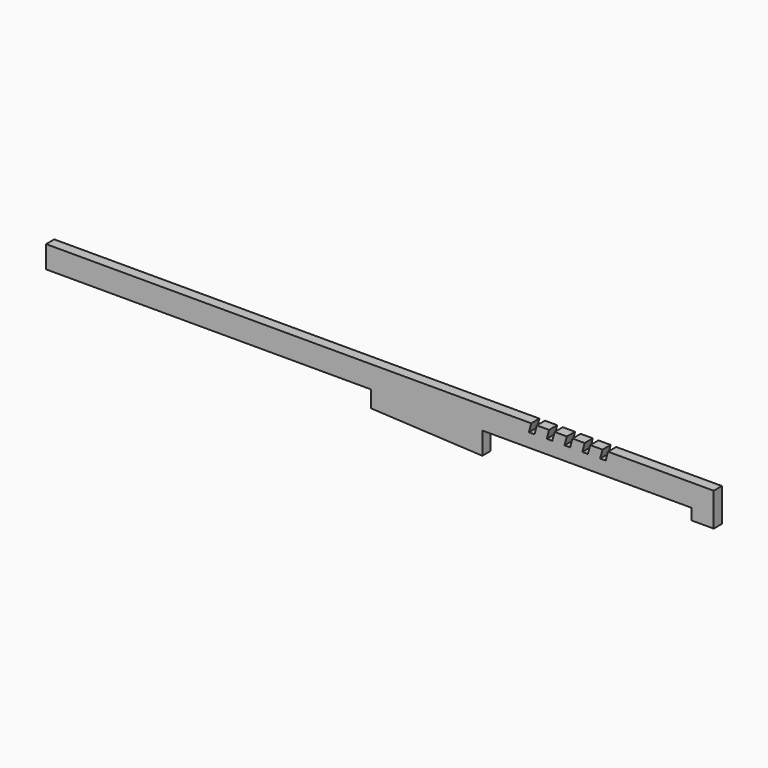
from build123d import *

# Parameters (mm, degrees)
F1_DEPTH = 5.842
F3_DEPTH = 25.4


with BuildPart() as f1:
    # F0 (on Front) → F1 (new body)
    with BuildSketch(Plane.XZ):
        Polygon((86.36, 6.35), (-190.5, 6.35), (-190.5, -6.35), (-5.08, -6.35), (-5.08, -19.05), (58.42, -19.05), (58.42, -6.35), (177.8, -6.35), (177.8, -12.7), (190.5, -12.7), (190.5, -6.35), (190.5, 6.35), (130.175, 6.35), (128.860199, 1.443097), (125.685199, 1.443097), (127, 6.35), (120.015, 6.35), (118.700199, 1.443097), (115.525199, 1.443097), (116.84, 6.35), (109.855, 6.35), (108.540199, 1.443097), (105.365199, 1.443097), (106.68, 6.35), (99.695, 6.35), (98.380199, 1.443097), (95.205199, 1.443097), (96.52, 6.35), (89.535, 6.35), (88.220199, 1.443097), (85.045199, 1.443097), align=None)
    extrude(amount=F1_DEPTH)

    # F2 (on face) → F3 (cut)
    with BuildSketch(Plane.XZ.offset(5.842)):
        Polygon((58.42, -19.05), (-5.08, -15.875), (-5.08, -19.05), align=None)
    extrude(amount=-F3_DEPTH, mode=Mode.SUBTRACT)


solid = f1.part
